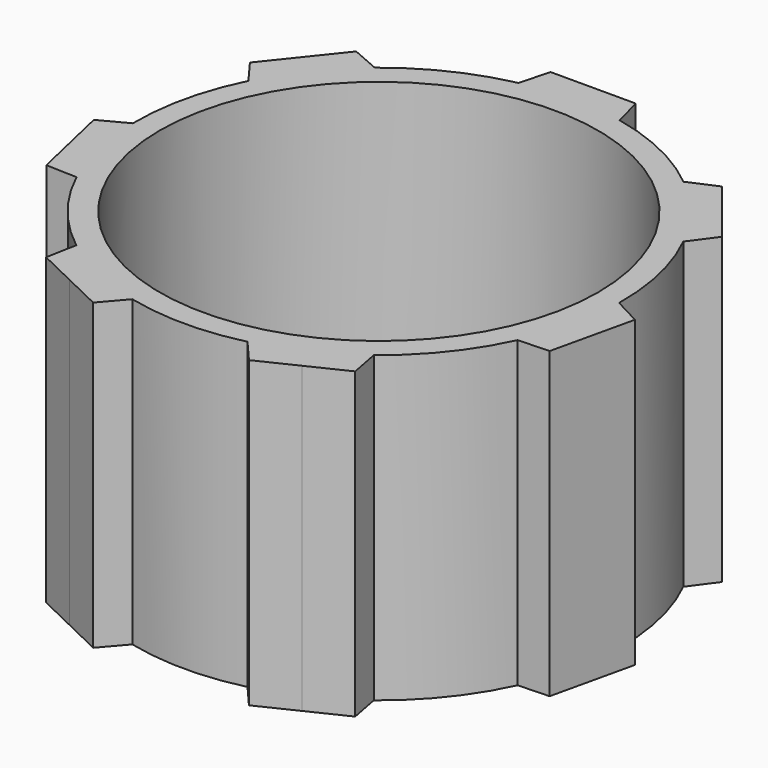
from build123d import *

# Parameters (mm, degrees)
F0_R     = 9.16
F1_DEPTH = 12.7


with BuildPart() as f1:
    # F0 (on Top) → F1 (new body)
    with BuildSketch(Plane.XY):
        with BuildLine():
            ThreePointArc((6.45141, 7.848879), (4.408259, 9.153844), (2.114112, 9.937612))
            Line((2.114112, 9.937612), (1.778, 11.192))
            Line((1.778, 11.192), (0, 11.192))
            Line((0, 11.192), (-1.778, 11.192))
            Line((-1.778, 11.192), (-2.114112, 9.937612))
            ThreePointArc((-2.114112, 9.937612), (-4.408259, 9.153844), (-6.45141, 7.848879))
            Line((-6.45141, 7.848879), (-7.641693, 8.368194))
            Line((-7.641693, 8.368194), (-8.750258, 6.978098))
            Line((-8.750258, 6.978098), (-9.858823, 5.588001))
            Line((-9.858823, 5.588001), (-9.087665, 4.54312))
            ThreePointArc((-9.087665, 4.54312), (-9.905268, 2.260813), (-10.158889, -0.15022))
            Line((-10.158889, -0.15022), (-11.307035, -0.757032))
            Line((-11.307035, -0.757032), (-10.911393, -2.490454))
            Line((-10.911393, -2.490454), (-10.515751, -4.223876))
            Line((-10.515751, -4.223876), (-9.218021, -4.272434))
            ThreePointArc((-9.218021, -4.272434), (-7.943408, -6.334656), (-6.216518, -8.0362))
            Line((-6.216518, -8.0362), (-6.457949, -9.312198))
            Line((-6.457949, -9.312198), (-4.856027, -10.083644))
            Line((-4.856027, -10.083644), (-3.254104, -10.855089))
            Line((-3.254104, -10.855089), (-2.407019, -9.870758))
            ThreePointArc((-2.407019, -9.870758), (0, -10.16), (2.407019, -9.870758))
            Line((2.407019, -9.870758), (3.254104, -10.855089))
            Line((3.254104, -10.855089), (4.856027, -10.083644))
            Line((4.856027, -10.083644), (6.457949, -9.312198))
            Line((6.457949, -9.312198), (6.216518, -8.0362))
            ThreePointArc((6.216518, -8.0362), (7.943408, -6.334656), (9.218021, -4.272434))
            Line((9.218021, -4.272434), (10.515751, -4.223876))
            Line((10.515751, -4.223876), (10.911393, -2.490454))
            Line((10.911393, -2.490454), (11.307035, -0.757032))
            Line((11.307035, -0.757032), (10.158889, -0.15022))
            ThreePointArc((10.158889, -0.15022), (9.905268, 2.260813), (9.087665, 4.54312))
            Line((9.087665, 4.54312), (9.858823, 5.588001))
            Line((9.858823, 5.588001), (8.750258, 6.978098))
            Line((8.750258, 6.978098), (7.641693, 8.368194))
            Line((7.641693, 8.368194), (6.45141, 7.848879))
        make_face()
        Circle(F0_R, mode=Mode.SUBTRACT)
    extrude(amount=F1_DEPTH)


solid = f1.part
